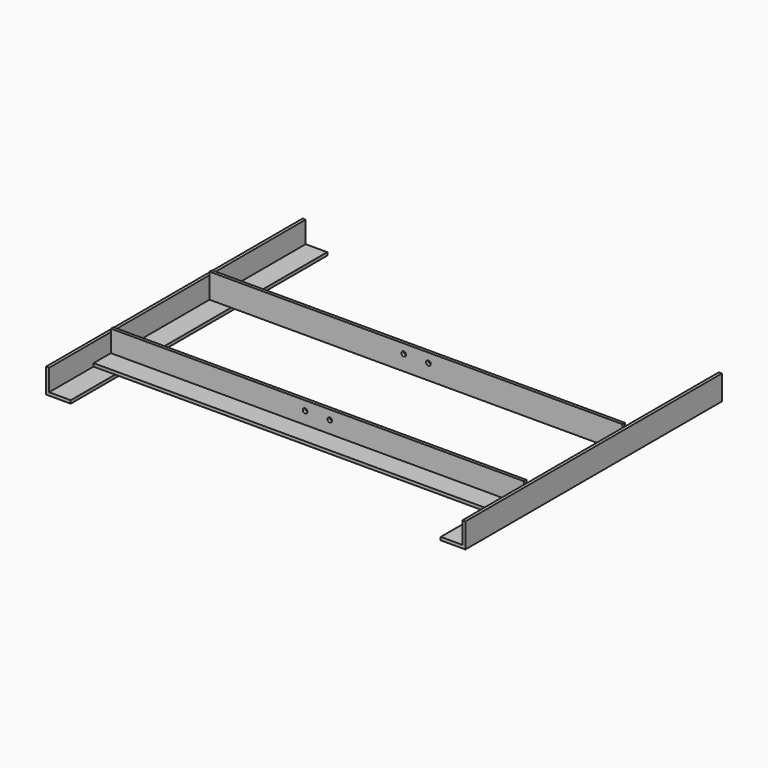
from build123d import *

# Parameters (mm, degrees)
F1_DEPTH = 330.2
F3_DEPTH = 850.9
F4_R     = 4.7625
F5_DEPTH = 501.651


with BuildPart() as f1:
    # F0 (on Front) → F1 (new body, symmetric)
    with BuildSketch(Plane.XZ):
        Polygon((-425.45, 50.8), (-431.8, 50.8), (-431.8, 0), (-381, 0), (-381, 6.35), (-425.45, 6.35), align=None)
        Polygon((381, 6.35), (381, 0), (431.8, 0), (431.8, 50.8), (425.45, 50.8), (425.45, 6.35), align=None)
    extrude(amount=F1_DEPTH, both=True)


with BuildPart() as f3:
    # F2 (on face) → F3 (new body, through all)
    with BuildSketch(Plane.YZ.offset(-425.45)):
        Polygon((-215.9, 6.35), (-165.1, 6.35), (-165.1, 57.15), (-171.45, 57.15), (-171.45, 12.7), (-215.9, 12.7), align=None)
        Polygon((88.9, 57.15), (82.55, 57.15), (82.55, 6.35), (133.35, 6.35), (133.35, 12.7), (88.9, 12.7), align=None)
    extrude(amount=F3_DEPTH)

    # F4 (on face) → F5 (cut, through all)
    with BuildSketch(Plane.XZ.offset(171.45)):
        with Locations((-25.4, 38.1)):
            Circle(F4_R)
        with Locations((25.4, 38.1)):
            Circle(F4_R)
    extrude(amount=-F5_DEPTH, mode=Mode.SUBTRACT)


solid = Compound([f1.part, f3.part])
